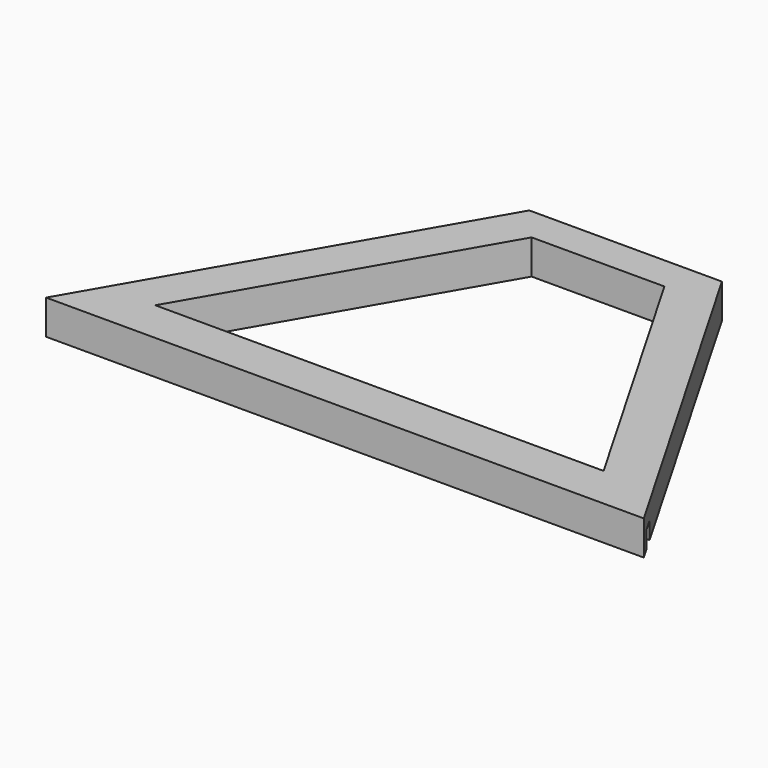
from build123d import *

# Parameters (mm, degrees)
BOX003_W                 = 220
BOX003_H                 = 2.5
BOX003_DEPTH             = 3
EXTRUDE001_DEPTH         = 10
BOX002_W                 = 220
BOX002_H                 = 113
BOX002_DEPTH             = 8
BOX001_W                 = 32
BOX001_H                 = 6
BOX001_DEPTH             = 6
PRISM003_DEPTH           = 6
PRISM003_PLACEMENT_ANGLE = 30
PRISM002_DEPTH           = 6
PRISM002_PLACEMENT_ANGLE = 30


with BuildPart() as cube003:
    # Box003 → Box003 (new body)
    with BuildSketch(Plane(origin=(-110, 2, 0), x_dir=(1, 0, 0), z_dir=(0, 0, 1))):
        with Locations((110, 1.25)):
            Rectangle(BOX003_W, BOX003_H)
    extrude(amount=BOX003_DEPTH)


with BuildPart() as extrude001:
    # Sketch002 → Extrude001 (new body)
    with BuildSketch(Plane.XY):
        Polygon((-95, 0), (95, 0), (85, 61), (-85, 61), align=None)
    extrude(amount=EXTRUDE001_DEPTH)


with BuildPart() as obj1:
    # Box002 → Box002 (new body)
    with BuildSketch(Plane(origin=(-110, -15, 0), x_dir=(1, 0, 0), z_dir=(0, 0, 1))):
        with Locations((110, 56.5)):
            Rectangle(BOX002_W, BOX002_H)
    extrude(amount=BOX002_DEPTH)

    # Cut002: cut Extrude001
    add(extrude001.part, mode=Mode.SUBTRACT)


with BuildPart() as cube001:
    # Box001 → Box001 (new body)
    with BuildSketch(Plane(origin=(-16, 55, 0), x_dir=(1, 0, 0), z_dir=(0, 0, 1))):
        with Locations((16, 3)):
            Rectangle(BOX001_W, BOX001_H)
    extrude(amount=BOX001_DEPTH)


with BuildPart() as prism003:
    # Prism003 → Prism003 (new body)
    with BuildSketch(Plane.XY):
        Polygon((45, 0), (-22.5, 38.971143), (-22.5, -38.971143), align=None)
    extrude(amount=PRISM003_DEPTH)


with BuildPart() as prism003_1:
    # Prism003 placement: moved
    add(prism003.part.moved(Location((0, 23, 0))).rotate(Axis((0, 23, 0), (0, 0, -1)), PRISM003_PLACEMENT_ANGLE))


with BuildPart() as obj2:
    # Prism002 → Prism002 (new body)
    with BuildSketch(Plane.XY):
        Polygon((60, 0), (-30, 51.961524), (-30, -51.961524), align=None)
    extrude(amount=PRISM002_DEPTH)


with BuildPart() as obj2_1:
    # Prism002 placement: moved
    add(obj2.part.moved(Location((0, 23, 0))).rotate(Axis((0, 23, 0), (0, 0, -1)), PRISM002_PLACEMENT_ANGLE))

    # Cut001: cut Prism003
    add(prism003_1.part, mode=Mode.SUBTRACT)


with BuildPart() as obj2_2:
    # Cut001 placement: moved
    add(obj2_1.part.moved(Location((0, 7, 0))))

    # Fusion: union Cube001
    add(cube001.part)

    # Cut003: cut obj1
    add(obj1.part, mode=Mode.SUBTRACT)

    # Cut004: cut Cube003
    add(cube003.part, mode=Mode.SUBTRACT)


solid = obj2_2.part
